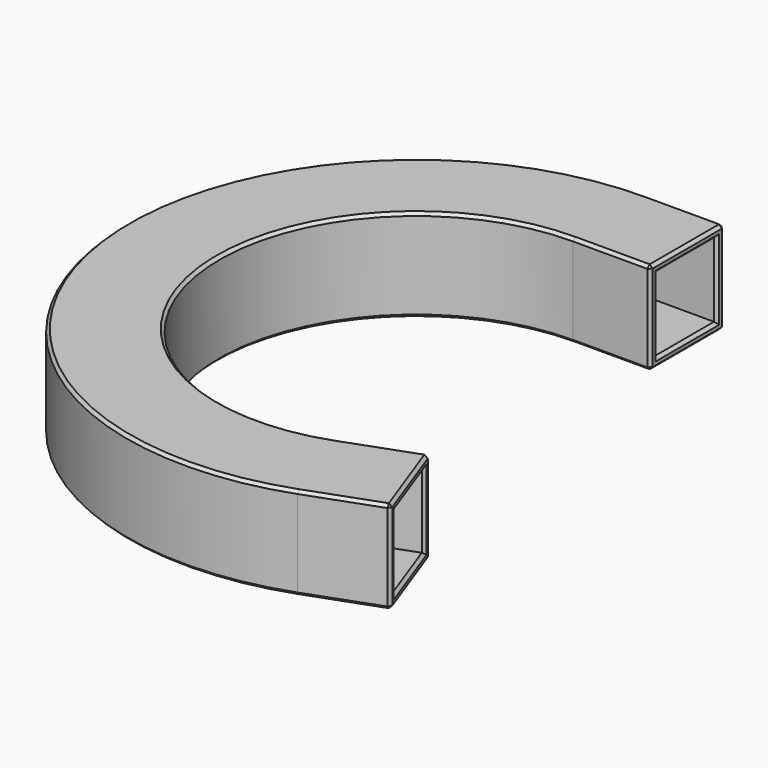
from build123d import *

# Parameters (mm, degrees)
F1_DEPTH  = 19.2
F2_DEPTH  = 16
F3_DEPTH  = 16
F4_W      = 15.4
F4_H      = 15.4
F5_DEPTH  = 18
F6_W      = 15.4
F6_H      = 15.4
F7_DEPTH  = 18
F8_SIZE   = 0.6
F10_DEPTH = 16.2
F11_R     = 5


with BuildPart() as f1:
    # F0 (on Top) → F1 (new body)
    with BuildSketch(Plane.XY):
        with BuildLine():
            Line((0, 40.8), (0, 60))
            ThreePointArc((0, 60), (-59.0884651807, -10.41889066), (20.5212085995, -56.3815572472))
            Line((20.5212085995, -56.3815572472), (13.9544218477, -38.3394589281))
            ThreePointArc((13.9544218477, -38.3394589281), (-40.1801563229, -7.0848456488), (0, 40.8))
        make_face()
    extrude(amount=F1_DEPTH)

    # F2 (add): a face of the model
    f2_faces = [f1.faces().sort_by_distance(p)[0] for p in [
        (0, 50.4, 9.6),
    ]]
    extrude(f2_faces, amount=F2_DEPTH)

    # F3 (add): a face of the model
    f3_faces = [f1.faces().sort_by_distance(p)[0] for p in [
        (17.2378152236, -47.3605080876, 9.6),
    ]]
    extrude(f3_faces, amount=F3_DEPTH)

    # F4 (on face) → F5 (cut)
    with BuildSketch(Plane.YZ.offset(16)):
        with Locations((50.4, 9.6)):
            Rectangle(F4_W, F4_H)
    extrude(amount=-F5_DEPTH, mode=Mode.SUBTRACT)

    # F6 (on face) → F7 (cut)
    with BuildSketch(Plane(origin=(15.0350819326, 5.4723222932, 0), x_dir=(-0.3420201433, 0.9396926208, 0), z_dir=(0.9396926208, 0.3420201433, 0))):
        with Locations((-50.4, 9.6)):
            Rectangle(F6_W, F6_H)
    extrude(amount=-F7_DEPTH, mode=Mode.SUBTRACT)

    # F8
    f8_edges = [f1.edges().sort_by_distance(p)[0] for p in [
        (-40.180156, -7.084846, 19.2),
        (-59.088465, -10.418891, 19.2),
        (-40.180156, -7.084846, 0),
        (-59.088465, -10.418891, 0),
        (16, 40.8, 9.6),
        (16, 50.4, 0),
        (16, 50.4, 19.2),
        (16, 60, 9.6),
        (16, 50.4, 17.3),
        (16, 58.1, 9.6),
        (16, 50.4, 1.9),
        (16, 42.7, 9.6),
        (35.556291, -50.909235, 9.6),
        (32.272897, -41.888186, 0),
        (32.272897, -41.888186, 19.2),
        (28.989504, -32.867137, 9.6),
        (32.272897, -41.888186, 17.3),
        (29.639342, -34.652553, 9.6),
        (32.272897, -41.888186, 1.9),
        (34.906452, -49.123819, 9.6),
    ]]
    chamfer(f8_edges, length=F8_SIZE)

    # F9 (on face) → F10 (cut)
    with BuildSketch(Plane(origin=(0, 0, 0), x_dir=(1, 0, 0), z_dir=(0, 0, -1))):
        with BuildLine():
            Line((8.9248354623, 42.063610306), (14.023808605, 56.0729238779))
            ThreePointArc((14.023808605, 56.0729238779), (-56.9218881241, 10.0368646691), (-6, -57.4877378229))
            Line((-6, -57.4877378229), (-6, -42.5793377121))
            ThreePointArc((-6, -42.5793377121), (-42.3467333795, 7.4668716397), (8.9248354623, 42.063610306))
        make_face()
    extrude(amount=-F10_DEPTH, mode=Mode.SUBTRACT)

    # F11
    f11_edges = [f1.edges().sort_by_distance(p)[0] for p in [
        (-56.921888, -10.036865, 16.2),
        (-42.346733, -7.466872, 16.2),
    ]]
    fillet(f11_edges, radius=F11_R)


solid = f1.part
